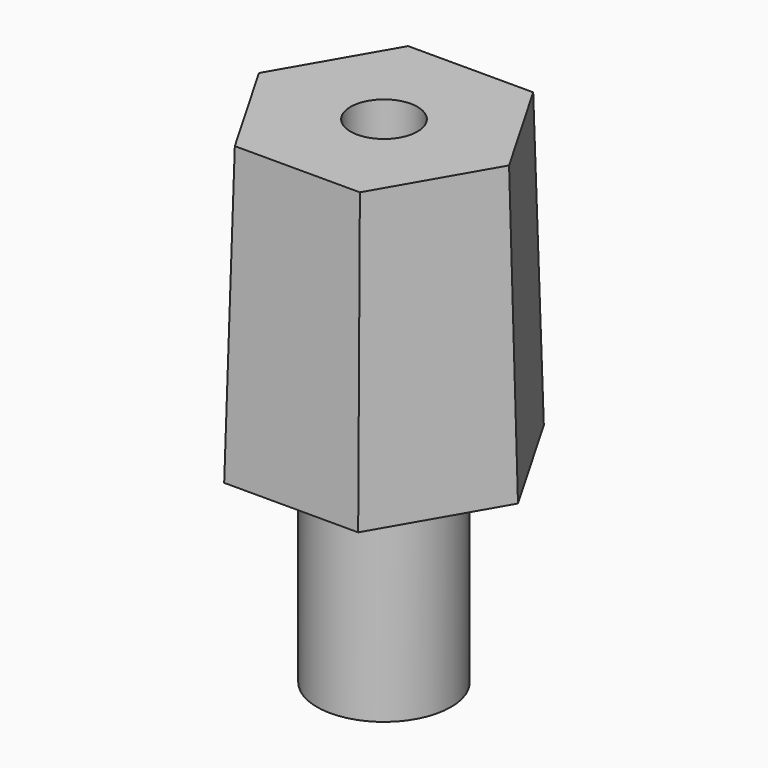
from build123d import *

# Parameters (mm, degrees)
PAD008_DEPTH  = 22
PAD008_TAPER  = 1.5
SKETCH016_R   = 2.5
HOLE004_DEPTH = 69.506788
SKETCH017_R   = 5
PAD009_DEPTH  = 15
HOLE005_DEPTH = 25


with BuildPart() as part:
    # Sketch015 → Pad008 (new body)
    with BuildSketch(Plane.XY):
        Polygon((10, 0), (5, 8.660254), (-5, 8.660254), (-10, 0), (-5, -8.660254), (5, -8.660254), align=None)
    extrude(amount=PAD008_DEPTH, taper=PAD008_TAPER)

    # Sketch016 → Hole004 (cut)
    with BuildSketch(Plane.XY):
        Circle(SKETCH016_R)
    extrude(amount=HOLE004_DEPTH, mode=Mode.SUBTRACT)

    # Sketch017 → Pad009 (join)
    with BuildSketch(Plane.XY):
        Circle(SKETCH017_R)
    extrude(amount=-PAD009_DEPTH)

    # Sketch016 → Hole005 (cut)
    with BuildSketch(Plane.XY):
        Circle(SKETCH016_R)
    extrude(amount=-HOLE005_DEPTH, mode=Mode.SUBTRACT)


with BuildPart() as part_1:
    # Body007 placement: moved
    add(part.part.moved(Location((0, 31.5, 21.4))))


solid = part_1.part
